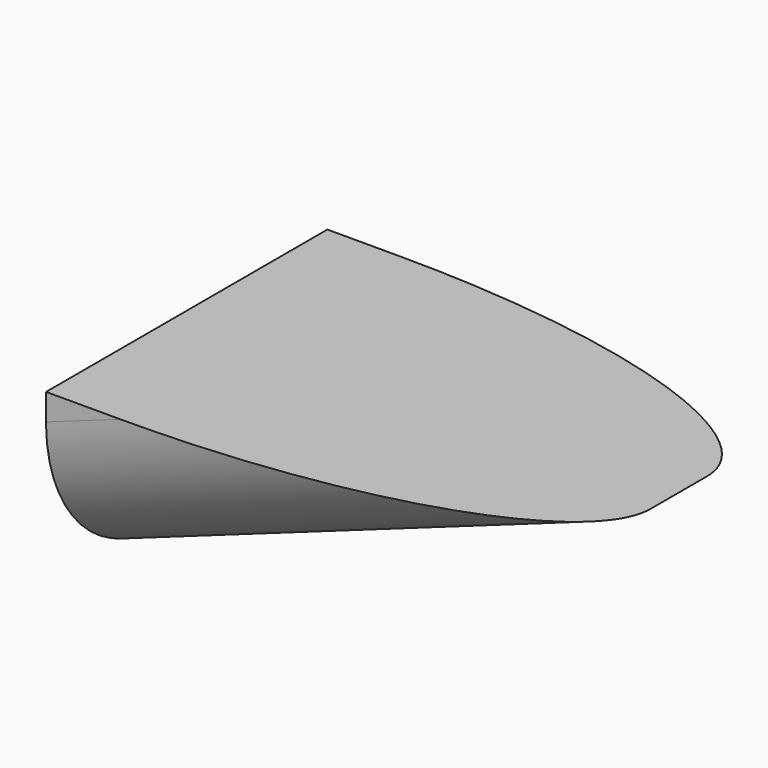
from build123d import *

# Parameters (mm, degrees)
F1_DEPTH = 63.5
F2_R     = 50.8


with BuildPart() as f1:
    # F0 (on Front) → F1 (new body, symmetric)
    with BuildSketch(Plane.XZ):
        Polygon((140.708246, 22.779214), (-37.091754, 22.779214), (-37.091754, -40.720786), align=None)
        Polygon((140.708246, 22.779214), (-37.091754, 22.779214), (-37.091754, -40.720786), align=None)
    extrude(amount=F1_DEPTH, both=True)

    # F2
    f2_edges = [f1.edges().sort_by_distance(p)[0] for p in [
        (51.808246, 63.5, -8.970786),
        (51.808246, -63.5, -8.970786),
    ]]
    fillet(f2_edges, radius=F2_R)


solid = f1.part
